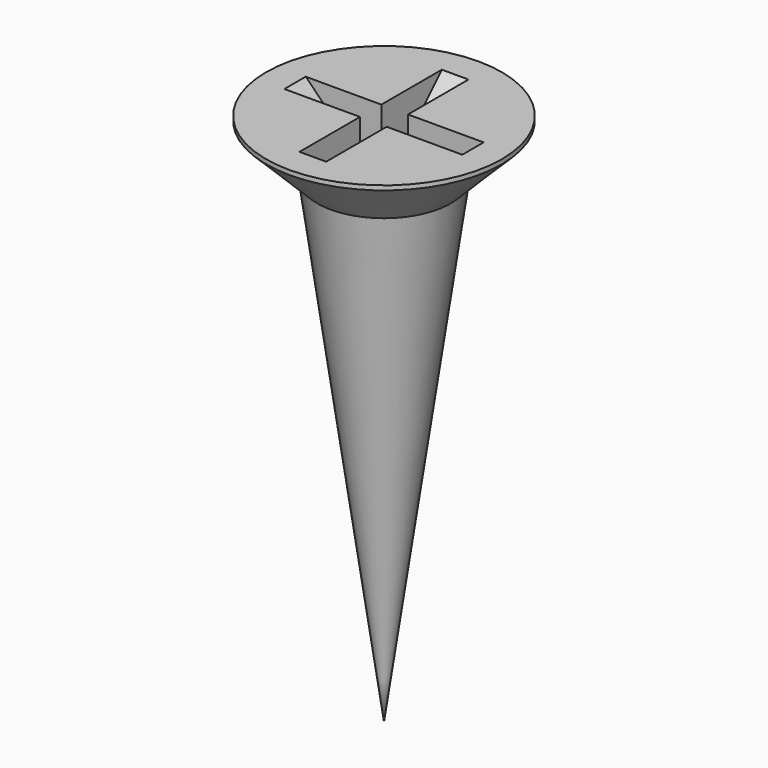
from build123d import *

# Parameters (mm, degrees)
POCKET003_DEPTH       = 0.3
POLARPATTERN002_COUNT = 2
POLARPATTERN002_ANGLE = 90


with BuildPart() as part:
    # Sketch017 → Revolution002 (revolve)
    with BuildSketch(Plane.YZ):
        Polygon((0, 0), (0, -12), (1.5, -1.25), (2.65, -0.1), (2.65, 0), align=None)
    revolve(axis=Axis((0, 0, 0), (0, 0, 1)))

    # Sketch018 → Pocket003 (cut, symmetric)
    with BuildSketch(Plane.XZ):
        Polygon((-2, 0), (0, -2), (2, 0), align=None)
    pocket003 = extrude(amount=POCKET003_DEPTH, both=True, mode=Mode.SUBTRACT)

    # PolarPattern002: Pocket003 ×2 about axis
    polarpattern002_axis = Axis((0, 0, 0), (0, 0, 1))
    for i in range(1, POLARPATTERN002_COUNT):
        add(pocket003.rotate(polarpattern002_axis, i * POLARPATTERN002_ANGLE / (POLARPATTERN002_COUNT - 1)), mode=Mode.SUBTRACT)


with BuildPart() as part_1:
    # Body013 placement: moved
    add(part.part.moved(Location((0, 70, 6.2))))


solid = part_1.part
